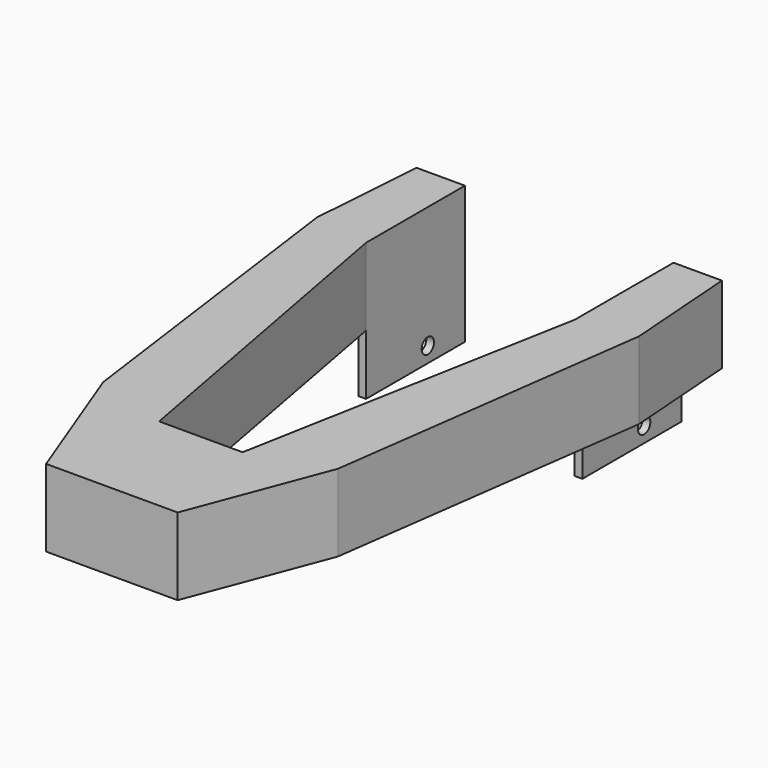
from build123d import *

# Parameters (mm, degrees)
F0_W     = 5
F0_H     = 80
F1_DEPTH = 50
F2_DEPTH = 39
F4_D     = 10


with BuildPart() as f1:
    # F0 (on Top) → F1 (new body)
    with BuildSketch(Plane.XY):
        Polygon((-42.571511, -141.256928), (0, -141.256928), (42.571511, -141.256928), (75.937726, -53.33484), (104.205489, 154.886812), (98.816866, 228.730714), (72.5, 228.730714), (72.5, 148.730714), (67.5, 148.730714), (27, -69.269286), (0, -69.269286), (-27, -69.269286), (-67.5, 148.730714), (-72.5, 148.730714), (-72.5, 228.730714), (-98.816866, 228.730714), (-104.205489, 154.886812), (-75.937726, -53.33484), align=None)
        with Locations((70, 188.730714)):
            Rectangle(F0_W, F0_H)
        with Locations((-70, 188.730714)):
            Rectangle(F0_W, F0_H)
    extrude(amount=F1_DEPTH)

    # F0 (on Top) → F2 (join)
    with BuildSketch(Plane.XY):
        with Locations((-70, 188.730714)):
            Rectangle(F0_W, F0_H)
        with Locations((70, 188.730714)):
            Rectangle(F0_W, F0_H)
    extrude(amount=-F2_DEPTH)

    # F4 (through all)
    with Locations(Plane.YZ.offset(72.5)):
        with Locations((198.730714, -29)):
            Hole(F4_D / 2)


solid = f1.part
